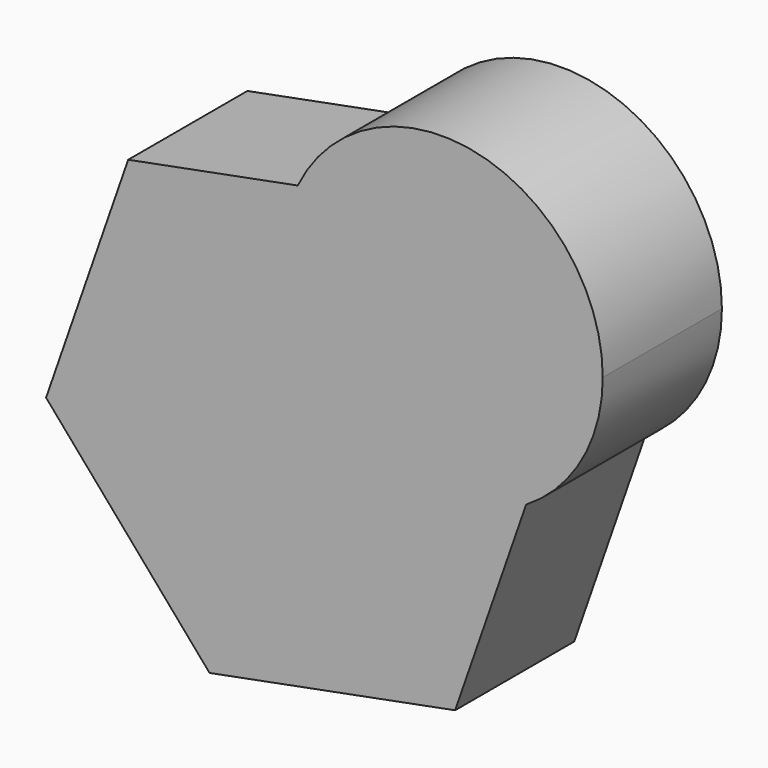
from build123d import *

# Parameters (mm, degrees)
F1_DEPTH = 50.4742488265


with BuildPart() as f1:
    # F0 (on Front) → F1 (new body)
    with BuildSketch(Plane.XZ):
        with BuildLine():
            ThreePointArc((28.4085404041, -30.6041326868), (47.4457170487, -10.8078252685), (54.3811030527, 15.7667547464))
            ThreePointArc((54.3811030527, 15.7667547464), (12.1282693342, 68.7781634448), (-48.9713224935, 39.4123450854))
            Line((-48.9713224934, 39.4123450854), (-23.2140926992, 44.3395745417))
            Line((-23.2140926992, 44.3395745417), (32.1769656266, -19.7646844725))
            Line((32.1769656266, -19.7646844725), (28.4085404041, -30.6041326868))
        make_face()
        with BuildLine():
            Line((-23.2140926992, 44.3395745417), (-48.9713224934, 39.4123450854))
            ThreePointArc((-48.9713224935, 39.4123450854), (-36.4867618694, -24.5571907142), (28.4085404041, -30.6041326868))
            Line((28.4085404041, -30.6041326868), (32.1769656266, -19.7646844725))
            Line((32.1769656266, -19.7646844725), (-23.2140926992, 44.3395745417))
        make_face()
        with BuildLine():
            ThreePointArc((28.4085404041, -30.6041326868), (-36.4867618694, -24.5571907142), (-48.9713224935, 39.4123450854))
            Line((-48.9713224934, 39.4123450854), (-106.4255386591, 28.4216403961))
            Line((-106.4255386591, 28.4216403961), (-134.2459262932, -51.6005527636))
            Line((-134.2459262932, -51.6005527636), (-78.8548679675, -115.7048117777))
            Line((-78.8548679675, -115.7048117777), (4.3565779924, -99.7868776321))
            Line((4.3565779924, -99.7868776321), (28.4085404041, -30.6041326868))
        make_face()
    extrude(amount=F1_DEPTH)


solid = f1.part
